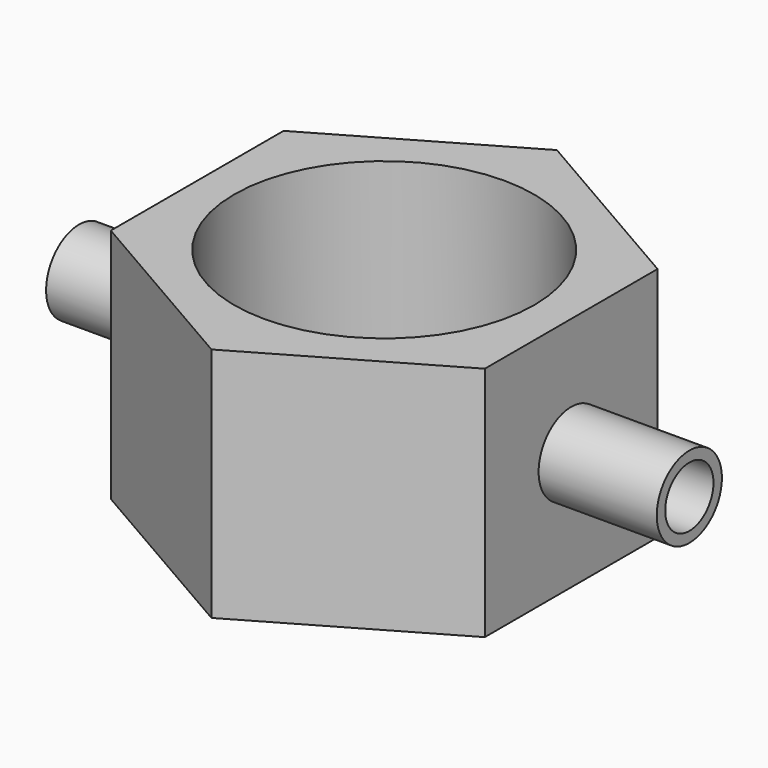
from build123d import *

# Parameters (mm, degrees)
F1_DEPTH  = 12.7
F2_R      = 16.11687381
F3_DEPTH  = 25.4
F4_R      = 4.4261898193
F5_DEPTH  = 12.7
F6_R      = 4.3771900823
F7_DEPTH  = 12.7
F8_R      = 3.2385
F9_DEPTH  = 7.62
F10_R     = 3.2422174322
F11_DEPTH = 7.62


with BuildPart() as f1:
    # F0 (on Top) → F1 (new body, symmetric)
    with BuildSketch(Plane.XY):
        Polygon((-20.0972985476, -2.401636506), (-20.0972985476, -25.6079979589), (0, -37.2111786854), (20.0972985476, -25.6079979589), (20.0972985476, -2.401636506), (0, 9.2015442204), align=None)
    extrude(amount=F1_DEPTH, both=True)

    # F2 (on face) → F3 (cut)
    with BuildSketch(Plane.XY.offset(12.7)):
        with Locations((0, -14.0048172325)):
            Circle(F2_R)
    extrude(amount=-F3_DEPTH, mode=Mode.SUBTRACT)

    # F4 (on face) → F5 (join)
    with BuildSketch(Plane(origin=(-20.0972985476, 0, 0), x_dir=(0, -1, 0), z_dir=(-1, 0, 0))):
        with Locations((14.0048172325, 0)):
            Circle(F4_R)
    extrude(amount=F5_DEPTH)

    # F6 (on face) → F7 (join)
    with BuildSketch(Plane.YZ.offset(20.0972985476)):
        with Locations((-14.0048172325, 0)):
            Circle(F6_R)
    extrude(amount=F7_DEPTH)

    # F8 (on face) → F9 (cut)
    with BuildSketch(Plane(origin=(-32.7972985476, 0, 0), x_dir=(0, -1, 0), z_dir=(-1, 0, 0))):
        with Locations((14.0048172325, 0)):
            Circle(F8_R)
    extrude(amount=-F9_DEPTH, mode=Mode.SUBTRACT)

    # F10 (on face) → F11 (cut)
    with BuildSketch(Plane.YZ.offset(32.7972985476)):
        with Locations((-14.0048172325, 0)):
            Circle(F10_R)
    extrude(amount=-F11_DEPTH, mode=Mode.SUBTRACT)


solid = f1.part
